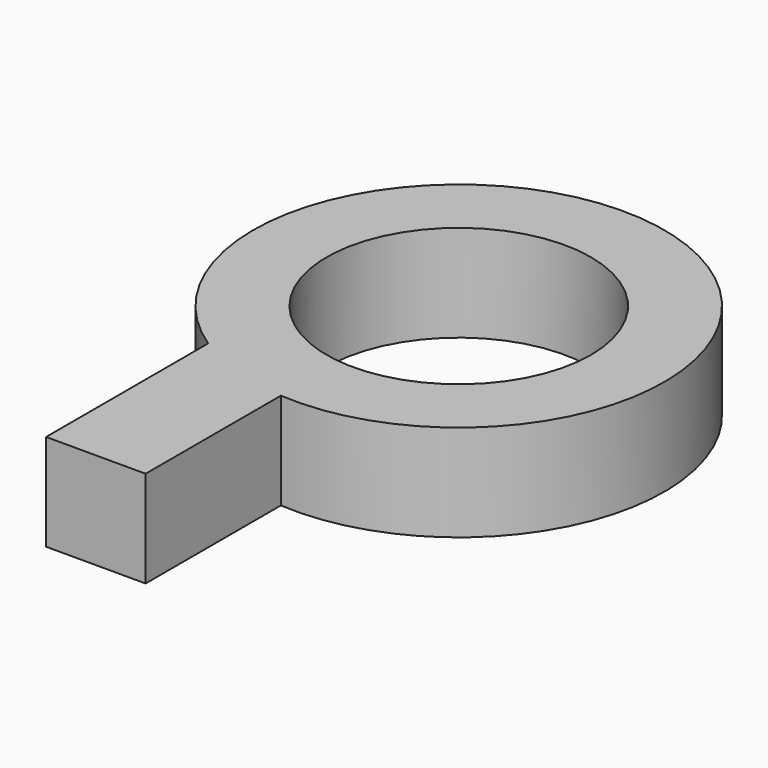
from build123d import *

# Parameters (mm, degrees)
F0_R     = 54.032055
F0_R_2   = 34.753217
F1_DEPTH = 25.4
F2_W     = 26.155442
F2_H     = 53.892124
F3_DEPTH = 25.4


with BuildPart() as f1:
    # F0 (on Top) → F1 (new body)
    with BuildSketch(Plane.XY):
        with Locations((-141.457483, 0)):
            Circle(F0_R)
        with Locations((-141.457483, 0)):
            Circle(F0_R_2, mode=Mode.SUBTRACT)
    extrude(amount=F1_DEPTH)

    # F2 (on Top) → F3 (join)
    with BuildSketch(Plane.XY):
        with Locations((-158.160523, -71.379861)):
            Rectangle(F2_W, F2_H)
    extrude(amount=F3_DEPTH)


solid = f1.part
